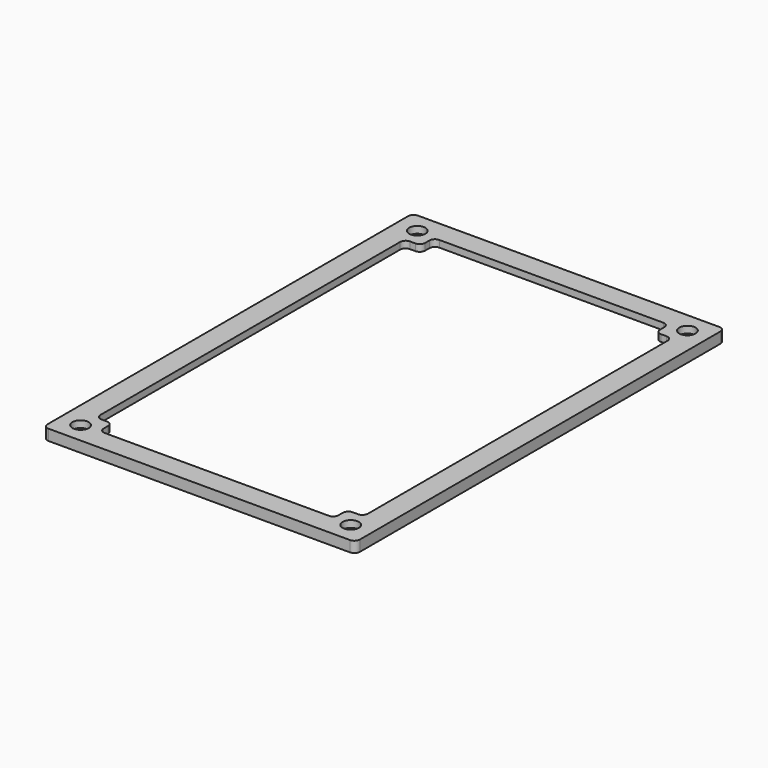
from build123d import *

# Parameters (mm, degrees)
F0_W      = 115
F0_H      = 170
F1_DEPTH  = 4
F2_W      = 110.5
F2_H      = 166
F3_DEPTH  = 1.5
F4_W      = 98.5
F4_H      = 154
F5_DEPTH  = 2.501
F7_W      = 6
F7_H      = 6
F8_DEPTH  = 2.5
F9_R      = 3
F10_DEPTH = 2.501
F11_R     = 2
F12_R     = 2
F13_R     = 1.5


with BuildPart() as f1:
    # F0 (on Top) → F1 (new body)
    with BuildSketch(Plane.XY):
        Rectangle(F0_W, F0_H)
    extrude(amount=F1_DEPTH)

    # F2 (on face) → F3 (cut)
    with BuildSketch(Plane(origin=(0, 0, 0), x_dir=(1, 0, 0), z_dir=(0, 0, -1))):
        Rectangle(F2_W, F2_H)
    extrude(amount=-F3_DEPTH, mode=Mode.SUBTRACT)

    # F4 (on face) → F5 (cut, through all)
    with BuildSketch(Plane(origin=(0, 0, 1.5), x_dir=(1, 0, 0), z_dir=(0, 0, -1))):
        Rectangle(F4_W, F4_H)
    extrude(amount=-F5_DEPTH, mode=Mode.SUBTRACT)

    # F7 (on face) → F8 (join, through all)
    with BuildSketch(Plane(origin=(0, 0, 1.5), x_dir=(1, 0, 0), z_dir=(0, 0, -1))):
        with Locations((46.25, -74)):
            Rectangle(F7_W, F7_H)
        with Locations((-46.25, -74)):
            Rectangle(F7_W, F7_H)
        with Locations((-46.25, 74)):
            Rectangle(F7_W, F7_H)
        with Locations((46.25, 74)):
            Rectangle(F7_W, F7_H)
    extrude(amount=-F8_DEPTH)

    # F9 (on face) → F10 (cut, through all)
    with BuildSketch(Plane(origin=(0, 0, 1.5), x_dir=(1, 0, 0), z_dir=(0, 0, -1))):
        with Locations((49.75, -77.5)):
            Circle(F9_R)
        with Locations((-49.75, -77.5)):
            Circle(F9_R)
        with Locations((-49.75, 77.5)):
            Circle(F9_R)
        with Locations((49.75, 77.5)):
            Circle(F9_R)
    extrude(amount=-F10_DEPTH, mode=Mode.SUBTRACT)

    # F11
    f11_edges = [f1.edges().sort_by_distance(p)[0] for p in [
        (-43.25, 77, 2.75),
        (-43.25, 71, 2.75),
        (-49.25, 71, 2.75),
        (49.25, 71, 2.75),
        (43.25, 71, 2.75),
        (43.25, 77, 2.75),
        (49.25, -71, 2.75),
        (43.25, -71, 2.75),
        (43.25, -77, 2.75),
        (-43.25, -77, 2.75),
        (-43.25, -71, 2.75),
        (-49.25, -71, 2.75),
    ]]
    fillet(f11_edges, radius=F11_R)

    # F12
    f12_edges = [f1.edges().sort_by_distance(p)[0] for p in [
        (-57.5, 85, 2),
        (57.5, 85, 2),
        (57.5, -85, 2),
        (-57.5, -85, 2),
    ]]
    fillet(f12_edges, radius=F12_R)

    # F13
    f13_edges = [f1.edges().sort_by_distance(p)[0] for p in [
        (55.25, 83, 0.75),
        (-55.25, 83, 0.75),
        (-55.25, -83, 0.75),
        (55.25, -83, 0.75),
    ]]
    fillet(f13_edges, radius=F13_R)


solid = f1.part
